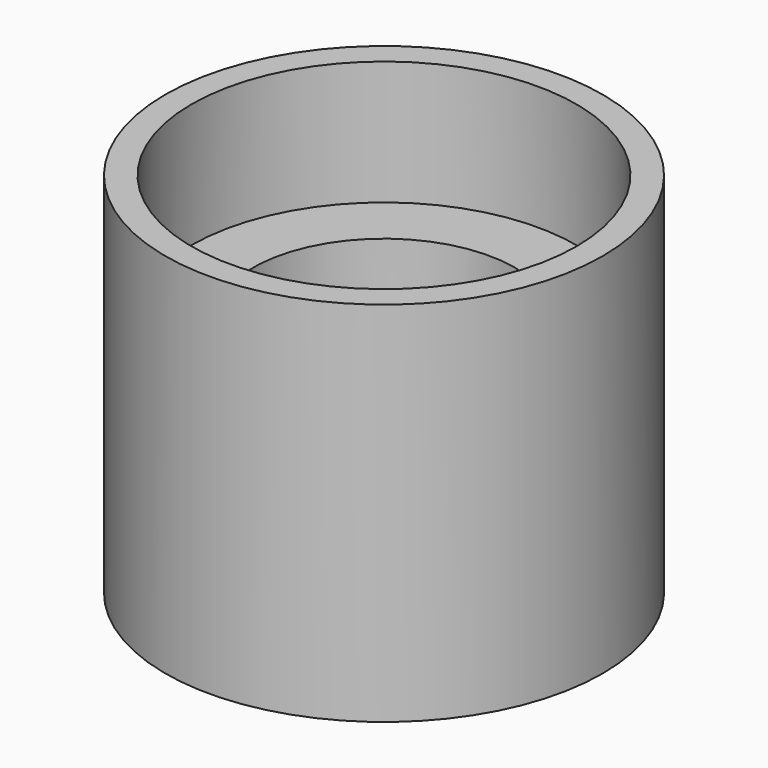
from build123d import *

# Parameters (mm, degrees)
CYLINDER003_R     = 11
CYLINDER003_DEPTH = 7.1
CYLINDER002_R     = 11
CYLINDER002_DEPTH = 7.1
CYLINDER001_R     = 7.5
CYLINDER001_DEPTH = 50
CYLINDER_R        = 12.5
CYLINDER_DEPTH    = 21


with BuildPart() as cylindre003:
    # Cylinder003 → Cylinder003 (new body)
    with BuildSketch(Plane.XY.offset(13.91)):
        Circle(CYLINDER003_R)
    extrude(amount=CYLINDER003_DEPTH)


with BuildPart() as cylindre002:
    # Cylinder002 → Cylinder002 (new body)
    with BuildSketch(Plane.XY.offset(-0.0001)):
        Circle(CYLINDER002_R)
    extrude(amount=CYLINDER002_DEPTH)


with BuildPart() as cylindre001:
    # Cylinder001 → Cylinder001 (new body)
    with BuildSketch(Plane.XY.offset(-11)):
        Circle(CYLINDER001_R)
    extrude(amount=CYLINDER001_DEPTH)


with BuildPart() as cut002:
    # Cylinder → Cylinder (new body)
    with BuildSketch(Plane.XY):
        Circle(CYLINDER_R)
    extrude(amount=CYLINDER_DEPTH)

    # Cut: cut Cylindre001
    add(cylindre001.part, mode=Mode.SUBTRACT)

    # Cut001: cut Cylindre002
    add(cylindre002.part, mode=Mode.SUBTRACT)

    # Cut002: cut Cylindre003
    add(cylindre003.part, mode=Mode.SUBTRACT)


solid = cut002.part
